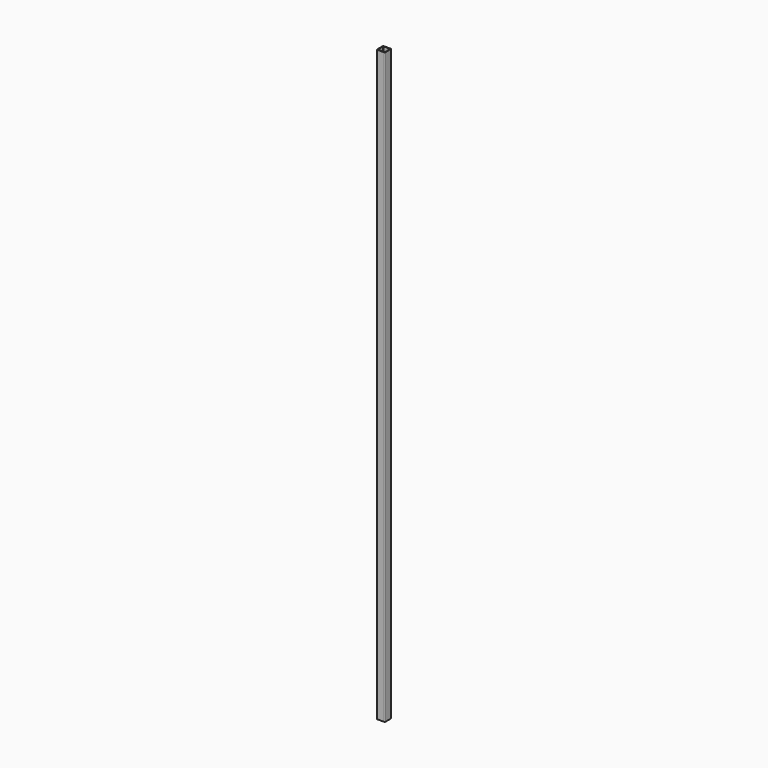
from build123d import *

# Parameters (mm, degrees)
F1_DEPTH = 1825


with BuildPart() as f1:
    # F0 (on Top) → F1 (new body)
    with BuildSketch(Plane.XY):
        with BuildLine():
            ThreePointArc((12.5, 10), (11.767767, 11.767767), (10, 12.5))
            Line((10, 12.5), (-10, 12.5))
            ThreePointArc((-10, 12.5), (-11.767767, 11.767767), (-12.5, 10))
            Line((-12.5, 10), (-12.5, -10))
            ThreePointArc((-12.5, -10), (-11.767767, -11.767767), (-10, -12.5))
            Line((-10, -12.5), (10, -12.5))
            ThreePointArc((10, -12.5), (11.767767, -11.767767), (12.5, -10))
            Line((12.5, -10), (12.5, 10))
        make_face()
        with BuildLine():
            ThreePointArc((11, -10), (10.707107, -10.707107), (10, -11))
            Line((10, -11), (-10, -11))
            ThreePointArc((-10, -11), (-10.707107, -10.707107), (-11, -10))
            Line((-11, -10), (-11, 10))
            ThreePointArc((-11, 10), (-10.707107, 10.707107), (-10, 11))
            Line((-10, 11), (11, 11))
            Line((11, 11), (11, -10))
        make_face(mode=Mode.SUBTRACT)
    extrude(amount=F1_DEPTH)


solid = f1.part
